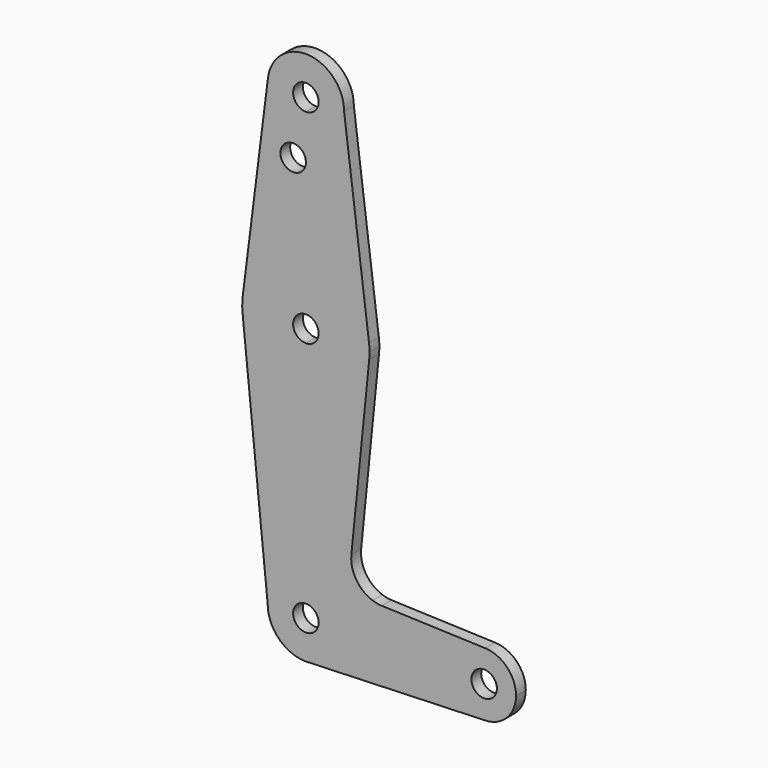
from build123d import *

# Parameters (mm, degrees)
F0_R     = 3.175
F1_DEPTH = 3.048


with BuildPart() as f1:
    # F0 (on Front) → F1 (new body)
    with BuildSketch(Plane.XZ):
        with BuildLine():
            ThreePointArc((3.175, 0), (-2.2450640303, -2.2450640303), (0, 3.175))
            Line((0, 3.175), (0, 9.525))
            ThreePointArc((0, 9.525), (-6.7351920908, 6.7351920908), (-9.525, 0))
            ThreePointArc((-9.525, 0), (-6.7351920908, -6.7351920908), (0, -9.525))
            Line((0, -9.525), (0.6773435479, -9.500885786))
            ThreePointArc((0.6773435479, -9.500885786), (6.9705567315, -6.4912990883), (9.525, 0))
            Line((9.525, 0), (3.175, 0))
        make_face()
        with BuildLine():
            ThreePointArc((-9.525, 0), (-6.7351920908, 6.7351920908), (0, 9.525))
            Line((0, 9.525), (0, 47.625))
            ThreePointArc((0, 47.625), (-10.644756084, 51.722700101), (-15.7942028036, 61.9003804205))
            Line((-15.7942028036, 61.9003804205), (-9.525, 0))
        make_face()
        with BuildLine():
            Line((0, 47.625), (0, 9.525))
            ThreePointArc((0, 9.525), (6.7351920908, 6.7351920908), (9.525, 0))
            Line((9.525, 0), (36.5125, 0))
            ThreePointArc((36.5125, 0), (38.9380895153, 5.7116327839), (44.7324052746, 7.9324746146))
            Line((44.7324052746, 7.9324746146), (18.968327868, 8.8497055806))
            ThreePointArc((18.968327868, 8.8497055806), (17.7792094412, 8.982128205), (16.6234296241, 9.2915007942))
            ThreePointArc((16.6234296241, 9.2915007942), (12.5445661447, 12.5255696717), (11.3408358685, 17.5898921545))
            Line((11.3408358685, 17.5898921545), (15.7954255641, 61.9125))
            ThreePointArc((15.7954255641, 61.9125), (10.6492737428, 51.7267849017), (0, 47.625))
        make_face()
        with BuildLine():
            Line((36.5125, 0), (9.525, 0))
            ThreePointArc((9.525, 0), (6.9705567315, -6.4912990883), (0.6773435479, -9.500885786))
            Line((0.6773435479, -9.500885786), (44.7324052746, -7.9324746146))
            ThreePointArc((44.7324052746, -7.9324746146), (38.9380895153, -5.7116327839), (36.5125, 0))
        make_face()
        with BuildLine():
            ThreePointArc((-15.7942028036, 61.9003804205), (-10.644756084, 51.722700101), (0, 47.625))
            Line((0, 47.625), (0, 60.325))
            ThreePointArc((0, 60.325), (-3.175, 63.5), (0, 66.675))
            Line((0, 66.675), (0, 79.375))
            ThreePointArc((0, 79.375), (-10.5003255158, 75.40625), (-15.7504882737, 65.484375))
            ThreePointArc((-15.7504882737, 65.484375), (-15.8738192656, 63.6936154008), (-15.7942028036, 61.9003804205))
        make_face()
        with BuildLine():
            Line((0, 60.325), (0, 47.625))
            ThreePointArc((0, 47.625), (10.6492737428, 51.7267849017), (15.7954255641, 61.9125))
            ThreePointArc((15.7954255641, 61.9125), (15.8550939106, 62.7052534459), (15.875, 63.5))
            ThreePointArc((15.875, 63.5), (15.8430821396, 64.5061676396), (15.7474569047, 65.5082893304))
            ThreePointArc((15.7474569047, 65.5082893304), (10.4912828548, 75.4142187767), (0, 79.375))
            Line((0, 79.375), (0, 66.675))
            ThreePointArc((0, 66.675), (2.2450640303, 65.7450640303), (3.175, 63.5))
            ThreePointArc((3.175, 63.5), (2.2450640303, 61.2549359697), (0, 60.325))
        make_face()
        with BuildLine():
            ThreePointArc((44.7324052746, 7.9324746146), (38.9380895153, 5.7116327839), (36.5125, 0))
            ThreePointArc((36.5125, 0), (38.9380895153, -5.7116327839), (44.7324052746, -7.9324746146))
            ThreePointArc((44.7324052746, -7.9324746146), (50.1616327839, -5.5119104847), (52.3875, 0))
            ThreePointArc((52.3875, 0), (50.1616327839, 5.5119104847), (44.7324052746, 7.9324746146))
        make_face()
        with BuildLine():
            ThreePointArc((47.625, 0), (44.45, -3.175), (41.275, 0))
            ThreePointArc((41.275, 0), (44.45, 3.175), (47.625, 0))
        make_face(mode=Mode.SUBTRACT)
        with BuildLine():
            ThreePointArc((0, -9.525), (0.3388863295, -9.5189695375), (0.6773435479, -9.500885786))
            Line((0.6773435479, -9.500885786), (0, -9.525))
        make_face()
        with BuildLine():
            Line((-9.4502929642, 115.490625), (-15.7504882737, 65.484375))
            ThreePointArc((-15.7504882737, 65.484375), (-10.5003255158, 75.40625), (0, 79.375))
            Line((0, 79.375), (0, 100.0252))
            Line((0, 100.0252), (0, 104.775))
            ThreePointArc((0, 104.775), (-7.14375, 107.9998046905), (-9.4502929642, 115.490625))
        make_face()
        with Locations((-3.175, 100.0252)):
            Circle(F0_R, mode=Mode.SUBTRACT)
        with BuildLine():
            Line((0, 100.0252), (0, 79.375))
            ThreePointArc((0, 79.375), (10.4912828548, 75.4142187767), (15.7474569047, 65.5082893304))
            Line((15.7474569047, 65.5082893304), (9.525, 114.3))
            ThreePointArc((9.525, 114.3), (6.7351920908, 107.5648079092), (0, 104.775))
            Line((0, 104.775), (0, 100.0252))
        make_face()
        with BuildLine():
            ThreePointArc((9.525, 114.3), (0.596483242, 123.8063048942), (-9.4502929642, 115.490625))
            ThreePointArc((-9.4502929642, 115.490625), (-7.14375, 107.9998046905), (0, 104.775))
            ThreePointArc((0, 104.775), (6.7351920908, 107.5648079092), (9.525, 114.3))
        make_face()
        with BuildLine():
            ThreePointArc((3.175, 114.3), (2.2450640303, 112.0549359697), (0, 111.125))
            ThreePointArc((0, 111.125), (-2.2450640303, 116.5450640303), (3.175, 114.3))
        make_face(mode=Mode.SUBTRACT)
        with BuildLine():
            Line((0, 9.525), (0, 3.175))
            ThreePointArc((0, 3.175), (2.2450640303, 2.2450640303), (3.175, 0))
            Line((3.175, 0), (9.525, 0))
            ThreePointArc((9.525, 0), (6.7351920908, 6.7351920908), (0, 9.525))
        make_face()
    extrude(amount=F1_DEPTH)


solid = f1.part
